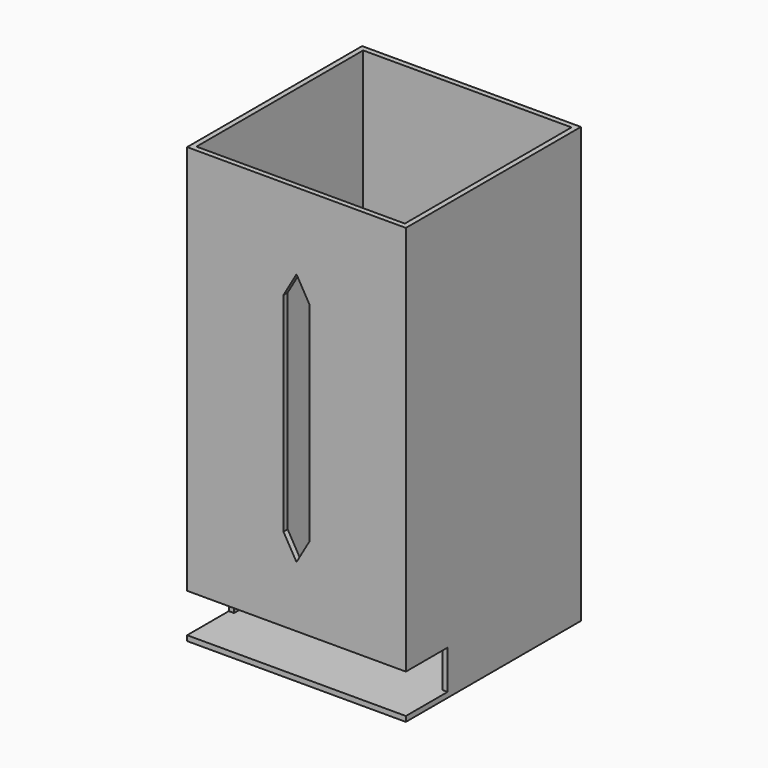
from build123d import *

# Parameters (mm, degrees)
F0_W     = 84
F0_H     = 84
F1_DEPTH = 167
F2_W     = 80
F2_H     = 80
F3_DEPTH = 165
F4_W     = 20
F4_H     = 15
F5_DEPTH = 84
F6_W     = 10
F6_H     = 80
F7_DEPTH = 2


with BuildPart() as f1:
    # F0 (on Top) → F1 (new body)
    with BuildSketch(Plane.XY):
        Rectangle(F0_W, F0_H)
    extrude(amount=F1_DEPTH)

    # F2 (on face) → F3 (cut)
    with BuildSketch(Plane.XY.offset(167)):
        Rectangle(F2_W, F2_H)
    extrude(amount=-F3_DEPTH, mode=Mode.SUBTRACT)

    # F4 (on face) → F5 (cut)
    with BuildSketch(Plane.YZ.offset(42)):
        with Locations((-32, 9.5)):
            Rectangle(F4_W, F4_H)
    extrude(amount=-F5_DEPTH, mode=Mode.SUBTRACT)

    # F6 (on face) → F7 (cut)
    with BuildSketch(Plane.XZ.offset(42)):
        Polygon((5, 49.017786), (-5, 49.017786), (0, 40.357532), align=None)
        with Locations((0, 89.017786)):
            Rectangle(F6_W, F6_H)
        Polygon((0, 137.67804), (-5, 129.017786), (5, 129.017786), align=None)
    extrude(amount=-F7_DEPTH, mode=Mode.SUBTRACT)


solid = f1.part
